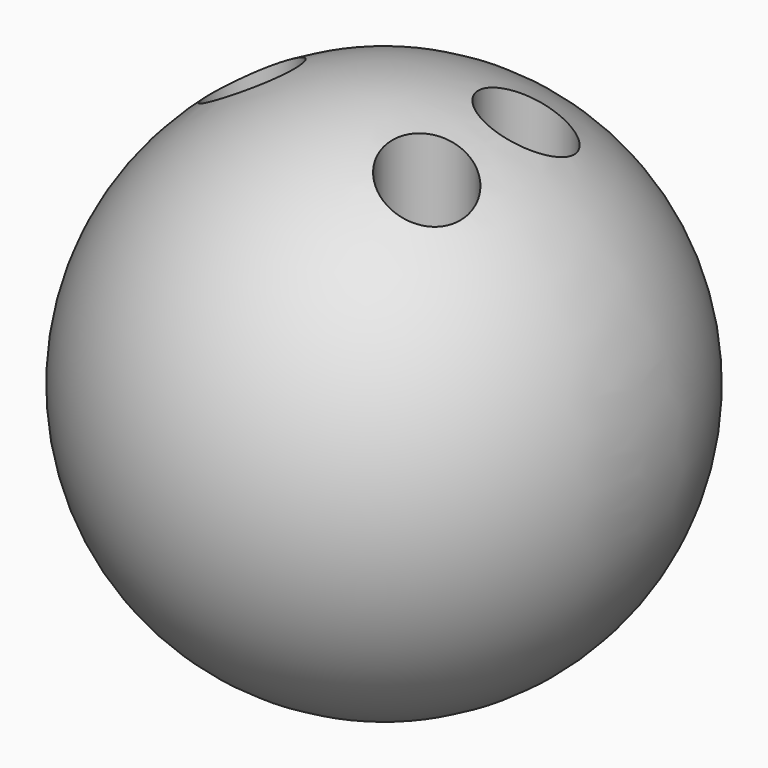
from build123d import *

# Parameters (mm, degrees)
F2_R     = 3.175
F3_DEPTH = 15


with BuildPart() as f1:
    # F0 (on Front) → F1 (revolve)
    with BuildSketch(Plane.XZ):
        with BuildLine():
            Line((0, 0), (0, -40))
            ThreePointArc((0, -40), (20, -20), (0, 0))
        make_face()
    revolve(axis=Axis((0, 0, -20), (0, 0, -1)))

    # F2 (on Top) → F3 (cut)
    with BuildSketch(Plane.XY):
        with Locations((-10, 0)):
            Circle(F2_R)
        with Locations((7, 4.7)):
            Circle(F2_R)
        with Locations((7, -4.7)):
            Circle(F2_R)
    extrude(amount=-F3_DEPTH, mode=Mode.SUBTRACT)


solid = f1.part
